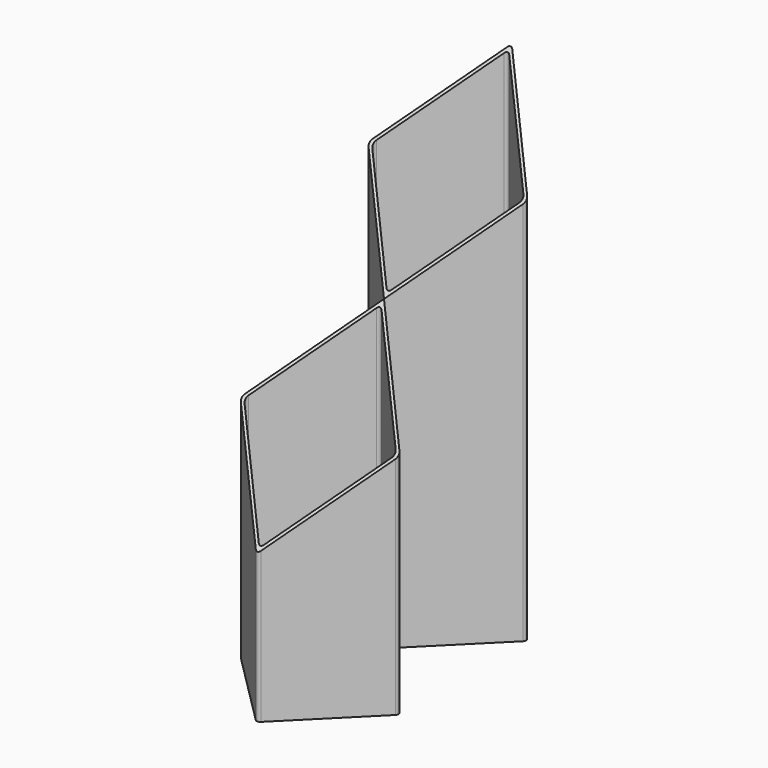
from build123d import *

# Parameters (mm, degrees)
F1_DEPTH      = 838.2
F3_DEPTH      = 141.054841816
F3_DEPTH_BACK = 141.054841816


with BuildPart() as f1:
    # F0 (on Top) → F1 (new body)
    with BuildSketch(Plane.XY):
        with BuildLine():
            Line((-4.4901280605, 139.1939698766), (-139.1939698766, 4.4901280605))
            ThreePointArc((-139.1939698766, 4.4901280605), (-141.053841816, 0), (-139.1939698766, -4.4901280605))
            Line((-139.1939698766, -4.4901280605), (0, -143.6840979371))
            Line((0, -143.6840979371), (139.1939698766, -4.4901280605))
            ThreePointArc((139.1939698766, -4.4901280605), (141.053841816, 0), (139.1939698766, 4.4901280605))
            Line((139.1939698766, 4.4901280605), (4.4901280605, 139.1939698766))
            ThreePointArc((4.4901280605, 139.1939698766), (0, 141.053841816), (-4.4901280605, 139.1939698766))
        make_face()
        with BuildLine():
            ThreePointArc((-132.4587777858, -4.4901280605), (-134.3186497252, 0), (-132.4587777858, 4.4901280605))
            Line((-132.4587777858, 4.4901280605), (-4.4901280605, 132.4587777858))
            ThreePointArc((-4.4901280605, 132.4587777858), (0, 134.3186497252), (4.4901280605, 132.4587777858))
            Line((4.4901280605, 132.4587777858), (132.4587777858, 4.4901280605))
            ThreePointArc((132.4587777858, 4.4901280605), (134.3186497252, 0), (132.4587777858, -4.4901280605))
            Line((132.4587777858, -4.4901280605), (4.4901280605, -132.4587777858))
            ThreePointArc((4.4901280605, -132.4587777858), (0, -134.3186497252), (-4.4901280605, -132.4587777858))
            Line((-4.4901280605, -132.4587777858), (-132.4587777858, -4.4901280605))
        make_face(mode=Mode.SUBTRACT)
    extrude(amount=F1_DEPTH)


with BuildPart() as f1b:
    # F0 (on Top) → F1, piece 2 (new body)
    with BuildSketch(Plane.XY):
        with BuildLine():
            Line((139.1939698766, -282.8780678137), (0, -143.6840979371))
            Line((0, -143.6840979371), (-139.1939698766, -282.8780678137))
            ThreePointArc((-139.1939698766, -282.8780678137), (-141.053841816, -287.3681958742), (-139.1939698766, -291.8583239347))
            Line((-139.1939698766, -291.8583239347), (-4.4901280605, -426.5621657508))
            ThreePointArc((-4.4901280605, -426.5621657508), (0, -428.4220376903), (4.4901280605, -426.5621657508))
            Line((4.4901280605, -426.5621657508), (139.1939698766, -291.8583239347))
            ThreePointArc((139.1939698766, -291.8583239347), (141.053841816, -287.3681958742), (139.1939698766, -282.8780678137))
        make_face()
        with BuildLine():
            Line((-132.4587777858, -282.8780678137), (-4.4901280605, -154.9094180884))
            ThreePointArc((-4.4901280605, -154.9094180884), (0, -153.049546149), (4.4901280605, -154.9094180884))
            Line((4.4901280605, -154.9094180884), (132.4587777858, -282.8780678137))
            ThreePointArc((132.4587777858, -282.8780678137), (134.3186497252, -287.3681958742), (132.4587777858, -291.8583239347))
            Line((132.4587777858, -291.8583239347), (4.4901280605, -419.82697366))
            ThreePointArc((4.4901280605, -419.82697366), (0, -421.6868455994), (-4.4901280605, -419.82697366))
            Line((-4.4901280605, -419.82697366), (-132.4587777858, -291.8583239347))
            ThreePointArc((-132.4587777858, -291.8583239347), (-134.3186497252, -287.3681958742), (-132.4587777858, -282.8780678137))
        make_face(mode=Mode.SUBTRACT)
    extrude(amount=F1_DEPTH)


with BuildPart() as f3_tool:
    # F2 (on Right) → F3 (new body, two sides)
    with BuildSketch(Plane.YZ) as f3_sk:
        Polygon((-494.2185301234, 203.2), (140.7814698766, 838.2), (-494.2185301234, 838.2), align=None)
    extrude(amount=-F3_DEPTH)
    extrude(f3_sk.sketch, amount=F3_DEPTH_BACK)


with BuildPart() as f1_1:
    add(f1.part)

    # F3: cut by f3_tool
    add(f3_tool.part, mode=Mode.SUBTRACT)


with BuildPart() as f1b_1:
    add(f1b.part)

    # F3: cut by f3_tool
    add(f3_tool.part, mode=Mode.SUBTRACT)


solid = Compound([f1_1.part, f1b_1.part])
